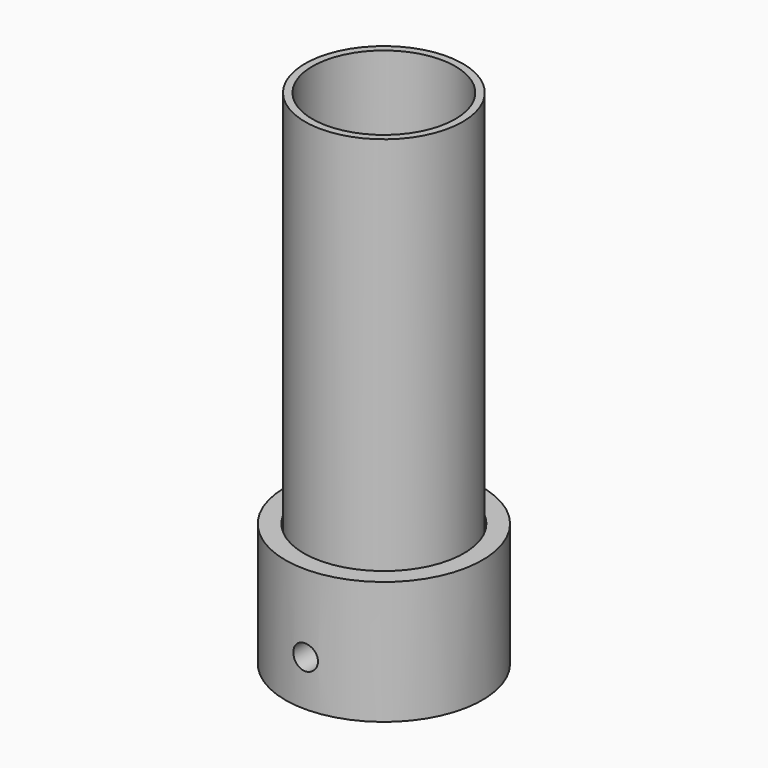
from build123d import *

# Parameters (mm, degrees)
F0_R           = 16
F0_R_2         = 14.5
F1_DEPTH       = 80
F6_D           = 3
F6_DEPTH       = 22
F6_CBORE_D     = 5
F6_CBORE_DEPTH = 5
F6_TIP         = 0.9012909285
F9_D           = 3
F9_DEPTH       = 22
F9_CBORE_D     = 5
F9_CBORE_DEPTH = 5
F9_TIP         = 0.9012909285
F11_R          = 15.9
F12_DEPTH      = 1
F13_R          = 1.5
F14_DEPTH      = 1
F15_R          = 14.5
F16_DEPTH      = 40
F18_R          = 15.9
F19_DEPTH      = 0.5


with BuildPart() as f1:
    # F0 (on Top) → F1 (new body)
    with BuildSketch(Plane.XY):
        Circle(F0_R)
        Circle(F0_R_2, mode=Mode.SUBTRACT)
    extrude(amount=F1_DEPTH)


with BuildPart() as f3:
    # F2 (on Front) → F3 (revolve)
    with BuildSketch(Plane.XZ):
        Polygon((-14.1818207945, 0), (-16.25, 0), (-16.25, 5), (-20, 5), (-20, -20), (0, -20), (0, -12), (-14.1818207945, -3), align=None)
    revolve(axis=Axis((0, 0, -16), (0, 0, 1)))

    # F6
    with Locations(Plane.XZ.offset(20)):
        with Locations((0, -10.7207391411)):
            CounterBoreHole(F6_D / 2, F6_CBORE_D / 2, F6_CBORE_DEPTH, depth=F6_DEPTH)
            with Locations((0, 0, -(F6_DEPTH + F6_TIP / 2))):  # 118° drill point
                Cone(0, F6_D / 2, F6_TIP, mode=Mode.SUBTRACT)

    # F9
    with Locations(Plane(origin=(0, 20, 0), x_dir=(1, 0, 0), z_dir=(0, 1, 0))):
        with Locations((0, 5.594058428)):
            CounterBoreHole(F9_D / 2, F9_CBORE_D / 2, F9_CBORE_DEPTH, depth=F9_DEPTH)
            with Locations((0, 0, -(F9_DEPTH + F9_TIP / 2))):  # 118° drill point
                Cone(0, F9_D / 2, F9_TIP, mode=Mode.SUBTRACT)


with BuildPart() as f1_1:
    # F10: moved
    add(f1.part.moved(Location((0, 0, 2))))


with BuildPart() as f12:
    # F11 (on Top) → F12 (new body)
    with BuildSketch(Plane.XY):
        Circle(F11_R)
    extrude(amount=F12_DEPTH)

    # F13 (on Top) → F14 (cut)
    with BuildSketch(Plane.XY):
        with Locations((6.4248272051, -8.8430160073)):
            Circle(F13_R)
        with Locations((-6.4248272051, -8.8430160073)):
            Circle(F13_R)
        with Locations((-10.3955887897, -3.3777315517)):
            Circle(F13_R)
        with Locations((0, -10.9305689111)):
            Circle(F13_R)
        with Locations((-6.4248272051, 8.8430160073)):
            Circle(F13_R)
        with Locations((3.3777315517, 10.3955887897)):
            Circle(F13_R)
        with Locations((-10.3955887897, 3.3777315517)):
            Circle(F13_R)
        with Locations((0, 10.9305689111)):
            Circle(F13_R)
        with Locations((-5.7666221108, 4.1896962064)):
            Circle(F13_R)
        with Locations((2.8609776839, 2.0786219591)):
            Circle(F13_R)
        with Locations((-5.7666221108, -4.1896962064)):
            Circle(F13_R)
        with Locations((-3.3777315517, 10.3955887897)):
            Circle(F13_R)
        with Locations((8.8430160073, -6.4248272051)):
            Circle(F13_R)
        with Locations((-3.5363628995, 0)):
            Circle(F13_R)
        with Locations((-2.202653646, -6.7790708645)):
            Circle(F13_R)
        with Locations((-2.202653646, 6.7790708645)):
            Circle(F13_R)
        with Locations((8.8430160073, 6.4248272051)):
            Circle(F13_R)
        with Locations((2.202653646, 6.7790708645)):
            Circle(F13_R)
        with Locations((6.4248272051, 8.8430160073)):
            Circle(F13_R)
        Circle(F13_R)
        with Locations((10.3955887897, -3.3777315517)):
            Circle(F13_R)
        with Locations((10.9305689111, 0)):
            Circle(F13_R)
        with Locations((5.7666221108, 4.1896962064)):
            Circle(F13_R)
        with Locations((5.7666221108, -4.1896962064)):
            Circle(F13_R)
        with Locations((10.3955887897, 3.3777315517)):
            Circle(F13_R)
        with Locations((2.202653646, -6.7790708645)):
            Circle(F13_R)
        with Locations((-7.1279369295, 0)):
            Circle(F13_R)
        with Locations((-1.0927962342, -3.3632809795)):
            Circle(F13_R)
        with Locations((3.3777315517, -10.3955887897)):
            Circle(F13_R)
        with Locations((2.8609776839, -2.0786219591)):
            Circle(F13_R)
        with Locations((-1.0927962342, 3.3632809795)):
            Circle(F13_R)
        with Locations((-3.3777315517, -10.3955887897)):
            Circle(F13_R)
        with Locations((-8.8430160073, -6.4248272051)):
            Circle(F13_R)
        with Locations((-10.9305689111, 0)):
            Circle(F13_R)
        with Locations((-8.8430160073, 6.4248272051)):
            Circle(F13_R)
        with Locations((7.1279369295, 0)):
            Circle(F13_R)
    extrude(amount=F14_DEPTH, mode=Mode.SUBTRACT)


with BuildPart() as f16:
    # F15 (on Top) → F16 (new body)
    with BuildSketch(Plane.XY):
        Circle(F15_R)
    extrude(amount=F16_DEPTH)


with BuildPart() as f16_1:
    # F17: moved
    add(f16.part.moved(Location((0, 0, 2))))


with BuildPart() as f19:
    # F18 (on Top) → F19 (new body)
    with BuildSketch(Plane.XY):
        Circle(F18_R)
    extrude(amount=F19_DEPTH)


with BuildPart() as f19_1:
    # F20: moved
    add(f19.part.moved(Location((0, 0, 1.25))))


solid = Compound([f3.part, f1_1.part, f12.part, f16_1.part, f19_1.part])
